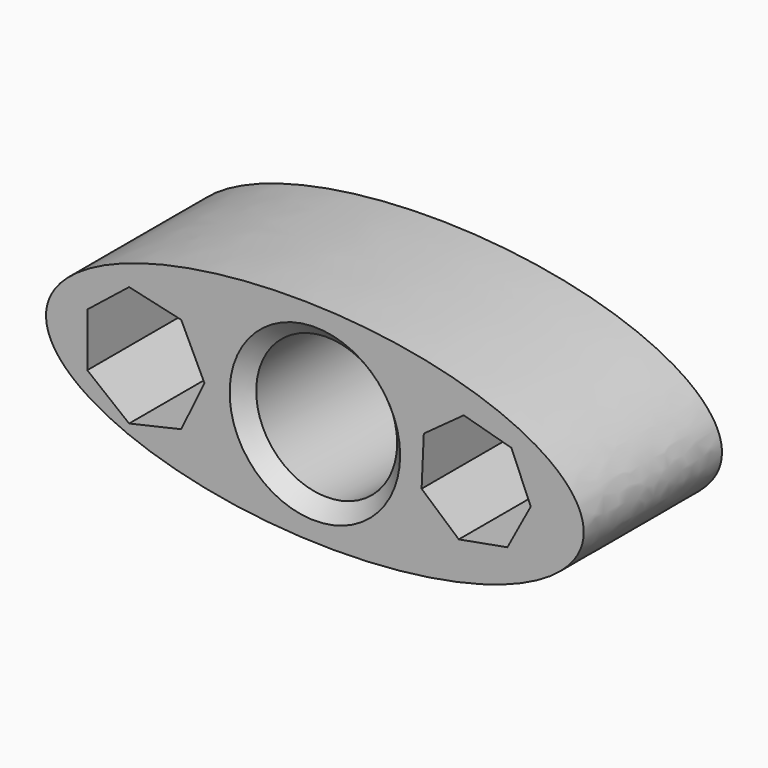
from build123d import *

# Parameters (mm, degrees)
F0_R     = 24.241258
F1_DEPTH = 59.436
F2_SIZE  = 5.08


with BuildPart() as f1:
    # F0 (on Front) → F1 (new body)
    with BuildSketch(Plane.XZ):
        with BuildLine():
            add(Edge.make_bspline(
                [(-92.441089, 3.214177), (-94.604106, -58.995089), (45.139037, -32.711721), (184.882179, -6.428353), (47.302053, 29.497545), (-90.278073, 65.423442), (-92.441089, 3.214177)],
                knots=[0, 0, 0, 2.094395, 2.094395, 4.18879, 4.18879, 6.283185, 6.283185, 6.283185], degree=2, weights=[1, 0.5, 1, 0.5, 1, 0.5, 1]))
        make_face()
        Polygon((-63.890613, -20.656551), (-78.265414, -9.19303), (-78.265414, 9.19303), (-63.890613, 20.656551), (-45.96553, 16.565268), (-37.988117, 0), (-45.96553, -16.565268), align=None, mode=Mode.SUBTRACT)
        Circle(F0_R, mode=Mode.SUBTRACT)
        Polygon((74.246735, -0.871428), (66.20485, -15.827719), (49.497518, -18.865414), (36.7057, -7.697068), (37.461897, 9.267327), (51.196677, 19.253236), (67.56747, 14.741066), align=None, mode=Mode.SUBTRACT)
    extrude(amount=F1_DEPTH)

    # F2
    f2_edges = [f1.edges().sort_by_distance(p)[0] for p in [
        (-24.241258, -59.436, 0),
        (-24.241258, 0, 0),
    ]]
    chamfer(f2_edges, length=F2_SIZE)


solid = f1.part
